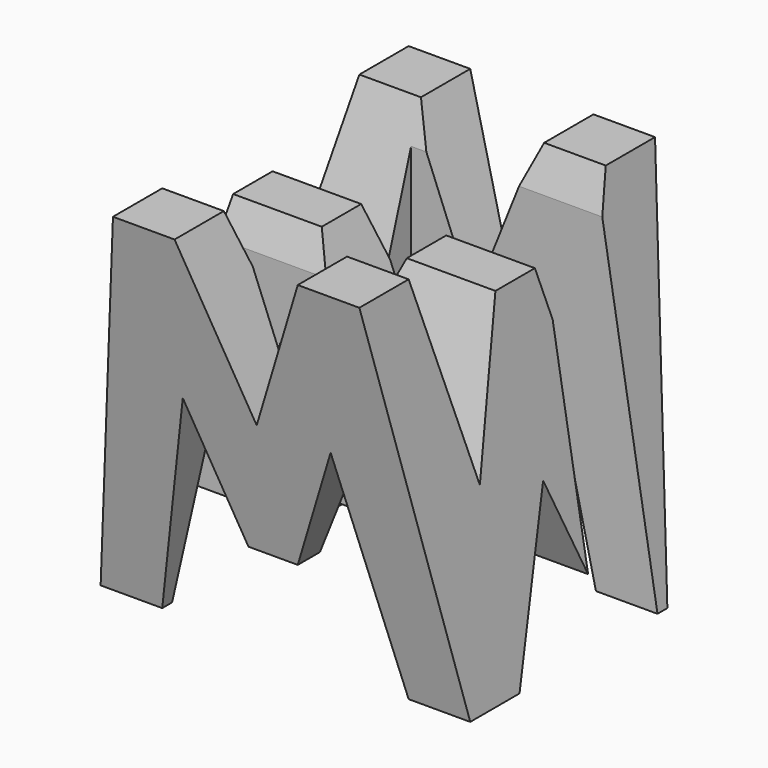
from build123d import *

# Parameters (mm, degrees)
F0_W      = 38.1
F0_H      = 38.1
F1_DEPTH  = 38.1
F6_DEPTH  = 38.1
F8_DEPTH  = 38.1
F9_W      = 25.4
F9_H      = 7.62
F10_DEPTH = 38.1


with BuildPart() as f1:
    # F0 (on Front) → F1 (new body)
    with BuildSketch(Plane.XZ):
        with Locations((19.05, 19.05)):
            Rectangle(F0_W, F0_H)
    extrude(amount=F1_DEPTH)

    # F5 (on offset) → F6 (cut)
    with BuildSketch(Plane.YZ.offset(38.1)):
        Polygon((-38.1, 0), (-31.75, 0), (-38.1, 38.1), align=None)
        Polygon((-12.7, 18.439805), (-6.35, 38.1), (-31.75, 38.1), (-26.67, 18.439805), (-21.59, 33.184951), (-16.51, 33.184951), align=None)
        Polygon((-25.4, 0), (-12.7, 0), (-19.05, 15.875), align=None)
        Polygon((-6.35, 0), (0, 0), (0, 38.1), align=None)
    extrude(amount=-F6_DEPTH, mode=Mode.SUBTRACT)

    # F7 (on offset) → F8 (cut)
    with BuildSketch(Plane.XZ.offset(38.1)):
        Polygon((0, 38.1), (0, 0), (6.35, 38.1), align=None)
        Polygon((11.43, 22.225), (6.35, 0), (31.75, 0), (26.67, 22.225), (21.59, 9.525), (16.51, 9.525), align=None)
        Polygon((25.4, 38.1), (12.7, 38.1), (19.05, 22.225), align=None)
        Polygon((31.75, 38.1), (38.1, 0), (38.1, 38.1), align=None)
    extrude(amount=-F8_DEPTH, mode=Mode.SUBTRACT)

    # F9 (on offset) → F10 (cut)
    with BuildSketch(Plane.XY.offset(38.1)):
        with Locations((25.4, -11.43)):
            Rectangle(F9_W, F9_H)
        with Locations((12.7, -26.67)):
            Rectangle(F9_W, F9_H)
    extrude(amount=-F10_DEPTH, mode=Mode.SUBTRACT)


solid = f1.part
